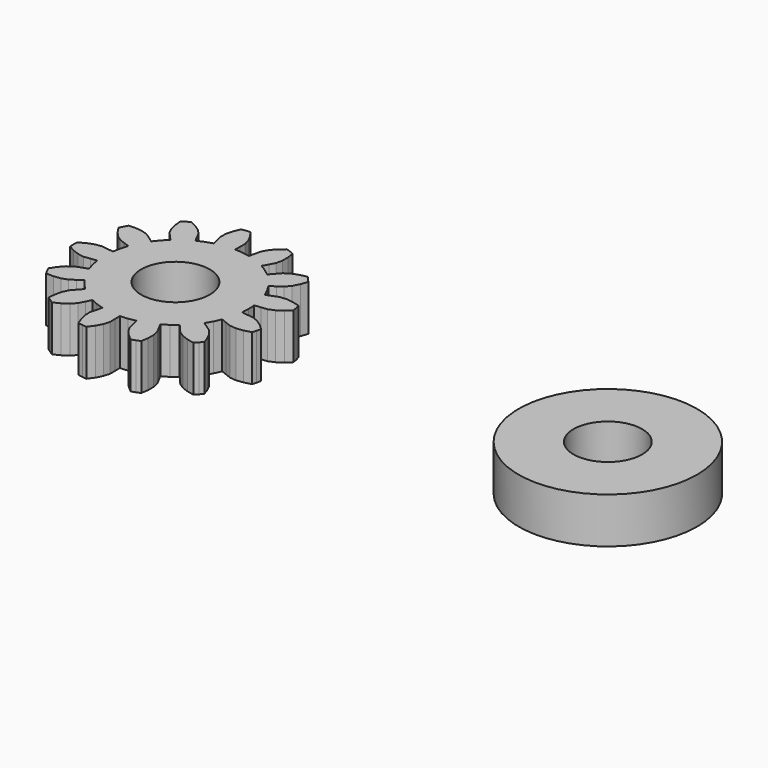
from build123d import *

# Parameters (mm, degrees)
F1_DEPTH = 1
F2_R     = 0.75
F3_DEPTH = 25
F4_R     = 1.95
F4_R_2   = 0.75
F5_DEPTH = 1


with BuildPart() as f1:
    # F0 (on Top) → F1 (new body)
    with BuildSketch(Plane.XY):
        Polygon((1.588458, -0.166522), (1.597286, 0), (1.588458, 0.166522), (1.722702, 0.180795), (1.85684, 0.196052), (1.986405, 0.250272), (2.11046, 0.335787), (2.227713, 0.445634), (2.206905, 0.53846), (2.182192, 0.630324), (2.027321, 0.673098), (1.877734, 0.691167), (1.737813, 0.678965), (1.611949, 0.630136), (1.486449, 0.580389), (1.416879, 0.731939), (1.331676, 0.875284), (1.44391, 0.950309), (1.555593, 1.026155), (1.64512, 1.134377), (1.715224, 1.267748), (1.767998, 1.419503), (1.706435, 1.492026), (1.641861, 1.561882), (1.484852, 1.527785), (1.344003, 1.474268), (1.225779, 1.398438), (1.137024, 1.296711), (1.049018, 1.194339), (0.916988, 1.2962), (0.774928, 1.38353), (0.839441, 1.502118), (0.903084, 1.621178), (0.932063, 1.758609), (0.932157, 1.909283), (0.908362, 2.06818), (0.820147, 2.103787), (0.730506, 2.135632), (0.607326, 2.032475), (0.507482, 1.919632), (0.438039, 1.797547), (0.406725, 1.666225), (0.376375, 1.534681), (0.212131, 1.563516), (0.04576, 1.574825), (0.047772, 1.70981), (0.048795, 1.84481), (0.010587, 1.979965), (-0.059351, 2.113424), (-0.154264, 2.243063), (-0.248922, 2.233595), (-0.343094, 2.220135), (-0.404224, 2.071549), (-0.440192, 1.925231), (-0.444944, 1.784859), (-0.411643, 1.654027), (-0.377386, 1.523446), (-0.536217, 1.472651), (-0.688787, 1.405347), (-0.749736, 1.525805), (-0.811567, 1.645817), (-0.908209, 1.747736), (-1.032157, 1.833405), (-1.176445, 1.904086), (-1.25586, 1.851714), (-1.33299, 1.796031), (-1.318067, 1.636056), (-1.281917, 1.489783), (-1.220891, 1.363281), (-1.130604, 1.262911), (-1.039586, 1.163208), (-1.156618, 1.044418), (-1.260435, 0.913921), (-1.370383, 0.992257), (-1.480904, 1.069788), (-1.613839, 1.115121), (-1.763403, 1.133375), (-1.92401, 1.128907), (-1.96999, 1.045627), (-2.012408, 0.960478), (-1.924851, 0.825763), (-1.824865, 0.713044), (-1.712041, 0.629392), (-1.585451, 0.582478), (-1.458525, 0.536493), (-1.506947, 0.376922), (-1.538227, 0.213127), (-1.671986, 0.231395), (-1.805878, 0.248683), (-1.944653, 0.227045), (-2.085569, 0.173703), (-2.225703, 0.095108), (-2.227714, 0), (-2.225703, -0.095108), (-2.085569, -0.173703), (-1.944653, -0.227045), (-1.805878, -0.248683), (-1.671986, -0.231395), (-1.538227, -0.213127), (-1.506947, -0.376922), (-1.458525, -0.536493), (-1.585451, -0.582478), (-1.712041, -0.629392), (-1.824865, -0.713044), (-1.924851, -0.825763), (-2.012408, -0.960478), (-1.96999, -1.045627), (-1.92401, -1.128907), (-1.763403, -1.133375), (-1.613839, -1.115121), (-1.480904, -1.069788), (-1.370383, -0.992257), (-1.260435, -0.913921), (-1.156618, -1.044418), (-1.039586, -1.163208), (-1.130604, -1.262911), (-1.220891, -1.363281), (-1.281917, -1.489783), (-1.318067, -1.636056), (-1.33299, -1.796031), (-1.25586, -1.851714), (-1.176445, -1.904086), (-1.032157, -1.833405), (-0.908209, -1.747736), (-0.811567, -1.645817), (-0.749736, -1.525805), (-0.688787, -1.405347), (-0.536217, -1.472651), (-0.377386, -1.523446), (-0.411643, -1.654027), (-0.444944, -1.784859), (-0.440192, -1.925231), (-0.404224, -2.071549), (-0.343094, -2.220135), (-0.248922, -2.233595), (-0.154264, -2.243063), (-0.059351, -2.113424), (0.010587, -1.979965), (0.048795, -1.84481), (0.047772, -1.70981), (0.04576, -1.574825), (0.212131, -1.563516), (0.376375, -1.534681), (0.406725, -1.666225), (0.438039, -1.797547), (0.507482, -1.919632), (0.607326, -2.032475), (0.730506, -2.135632), (0.820147, -2.103787), (0.908362, -2.06818), (0.932157, -1.909283), (0.932063, -1.758609), (0.903084, -1.621178), (0.839441, -1.502118), (0.774928, -1.38353), (0.916988, -1.2962), (1.049018, -1.194339), (1.137024, -1.296711), (1.225779, -1.398438), (1.344003, -1.474268), (1.484852, -1.527785), (1.641861, -1.561882), (1.706435, -1.492026), (1.767998, -1.419503), (1.715224, -1.267748), (1.64512, -1.134377), (1.555593, -1.026155), (1.44391, -0.950309), (1.331676, -0.875284), (1.416879, -0.731939), (1.486449, -0.580389), (1.611949, -0.630136), (1.737813, -0.678965), (1.877734, -0.691167), (2.027321, -0.673098), (2.182192, -0.630324), (2.206905, -0.53846), (2.227713, -0.445634), (2.11046, -0.335787), (1.986405, -0.250272), (1.85684, -0.196052), (1.722702, -0.180795), align=None)
    extrude(amount=F1_DEPTH)

    # F2 (on face) → F3 (cut)
    with BuildSketch(Plane.XY.offset(1)):
        Circle(F2_R)
    extrude(amount=-F3_DEPTH, mode=Mode.SUBTRACT)


with BuildPart() as f5:
    # F4 (on Top) → F5 (new body)
    with BuildSketch(Plane.XY):
        with Locations((9.450426, 0)):
            Circle(F4_R)
        with Locations((9.450426, 0)):
            Circle(F4_R_2, mode=Mode.SUBTRACT)
    extrude(amount=F5_DEPTH)


solid = Compound([f1.part, f5.part])
